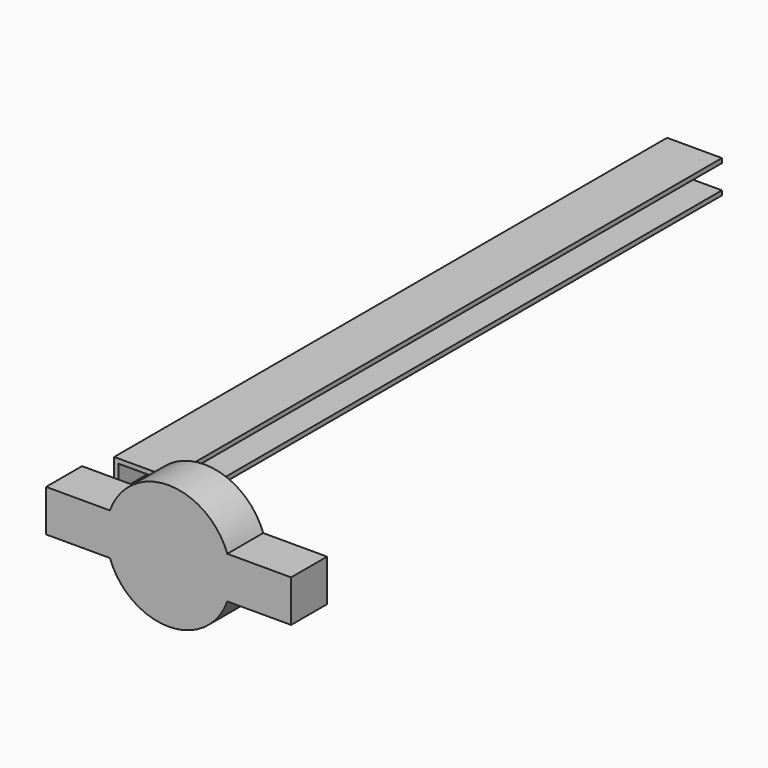
from build123d import *

# Parameters (mm, degrees)
F1_DEPTH = 100
F3_W     = 18.475
F3_H     = 12.125
F4_DEPTH = 10
F5_W     = 18.475
F5_H     = 12.125
F6_DEPTH = 3
F8_W     = 33.9545609808
F8_H     = 12.125
F9_DEPTH = 13


with BuildPart() as f1:
    # F0 (on Front) → F1 (new body, symmetric)
    with BuildSketch(Plane.XZ):
        Polygon((-18.2772804904, 33.2013138086), (-34.1522804904, 33.2013138086), (-34.1522804904, 23.6763138086), (-18.2772804904, 23.6763138086), (-18.2772804904, 24.9763138086), (-32.8522804904, 24.9763138086), (-32.8522804904, 31.9013138086), (-18.2772804904, 31.9013138086), align=None)
    extrude(amount=F1_DEPTH, both=True)


with BuildPart() as f4:
    # F3 (on offset) → F4 (new body)
    with BuildSketch(Plane.XZ.offset(110)):
        with Locations((-26.2147804904, 28.4388138086)):
            Rectangle(F3_W, F3_H)
        Polygon((-34.234100264, 23.5990439316), (-34.2011767374, 33.2239876219), (-18.2261767374, 33.2239876219), (-18.2261767374, 31.8239876219), (-32.8059656421, 31.8239876219), (-32.8059656421, 24.9990439316), (-18.2261767374, 24.9990439316), (-18.2261767374, 23.5990439316), align=None, mode=Mode.SUBTRACT)
    extrude(amount=F4_DEPTH)

    # F5 (on face) → F6 (join)
    with BuildSketch(Plane.XZ.offset(120)):
        with Locations((-26.2147804904, 28.4388138086)):
            Rectangle(F5_W, F5_H)
    extrude(amount=F6_DEPTH)


with BuildPart() as f7_1:
    # F7: instance of F4
    add(f4.part.mirror(Plane.YZ))


with BuildPart() as f4_1:
    add(f4.part)

    add(f7_1.part)  # F9 merges F7_1
    # F8 (on face) → F9 (join, through all)
    with BuildSketch(Plane.XZ.offset(123)):
        with Locations((0, 28.4388138086)):
            Rectangle(F8_W, F8_H)
        with BuildLine():
            ThreePointArc((16.9772804904, 34.5013138086), (0, 46.4660698144), (-16.9772804904, 34.5013138086))
            Line((-16.9772804904, 34.5013138086), (16.9772804904, 34.5013138086))
        make_face()
        with BuildLine():
            Line((16.9772804904, 22.3763138086), (-16.9772804904, 22.3763138086))
            ThreePointArc((-16.9772804904, 22.3763138086), (0, 10.4115578028), (16.9772804904, 22.3763138086))
        make_face()
    extrude(amount=-F9_DEPTH)


solid = Compound([f1.part, f4_1.part])
